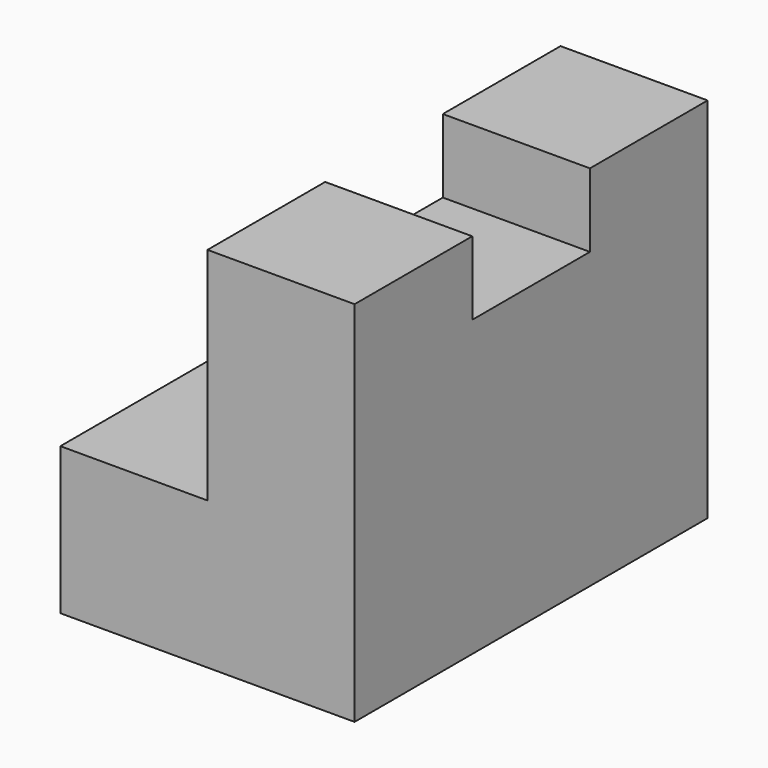
from build123d import *

# Parameters (mm, degrees)
F1_DEPTH = 38.1
F3_DEPTH = 6.35


with BuildPart() as f1:
    # F0 (on Front) → F1 (new body)
    with BuildSketch(Plane.XZ):
        Polygon((0, 12.7), (0, 0), (25.4, 0), (25.4, 31.75), (12.7, 31.75), (12.7, 12.7), align=None)
    extrude(amount=F1_DEPTH)

    # F2 (on face) → F3 (cut)
    with BuildSketch(Plane.XY.offset(31.75)):
        Polygon((25.4, -25.4), (25.4, -16.55913), (25.4, -12.7), (12.7, -12.7), (12.7, -25.4), align=None)
    extrude(amount=-F3_DEPTH, mode=Mode.SUBTRACT)


solid = f1.part
